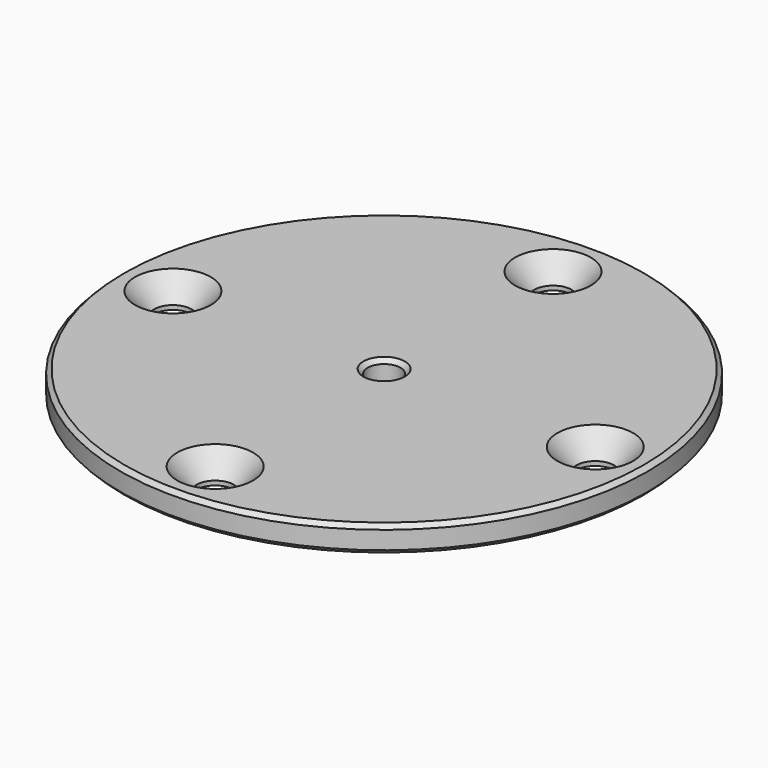
from build123d import *

# Parameters (mm, degrees)
F0_R           = 31.75
F1_DEPTH       = 3.175
F2_R           = 4.7625
F3_DEPTH       = 12.7
F5_D           = 4.4958
F5_CSINK_D     = 9.1186
F5_CSINK_ANGLE = 82
F6_R           = 1.9812
F7_DEPTH       = 15.876
F8_SIZE        = 0.508


with BuildPart() as f1:
    # F0 (on Top) → F1 (new body)
    with BuildSketch(Plane.XY):
        Circle(F0_R)
    extrude(amount=F1_DEPTH)

    # F2 (on face) → F3 (join)
    with BuildSketch(Plane(origin=(0, 0, 0), x_dir=(1, 0, 0), z_dir=(0, 0, -1))):
        Circle(F2_R)
    extrude(amount=F3_DEPTH)

    # F5 (through all)
    with Locations(Plane.XY.offset(3.175)):
        with Locations((-25.4, 0), (0, 25.4), (25.4, 0), (0, -25.4)):
            CounterSinkHole(F5_D / 2, F5_CSINK_D / 2, counter_sink_angle=F5_CSINK_ANGLE)

    # F6 (on face) → F7 (cut, through all)
    with BuildSketch(Plane.XY.offset(3.175)):
        Circle(F6_R)
    extrude(amount=-F7_DEPTH, mode=Mode.SUBTRACT)

    # F8
    f8_edges = [f1.edges().sort_by_distance(p)[0] for p in [
        (-31.75, 0, 3.175),
        (-1.9812, 0, 3.175),
        (-31.75, 0, 0),
        (-4.7625, 0, -12.7),
        (-1.9812, 0, -12.7),
        (-4.7625, 0, 0),
    ]]
    chamfer(f8_edges, length=F8_SIZE)


solid = f1.part
